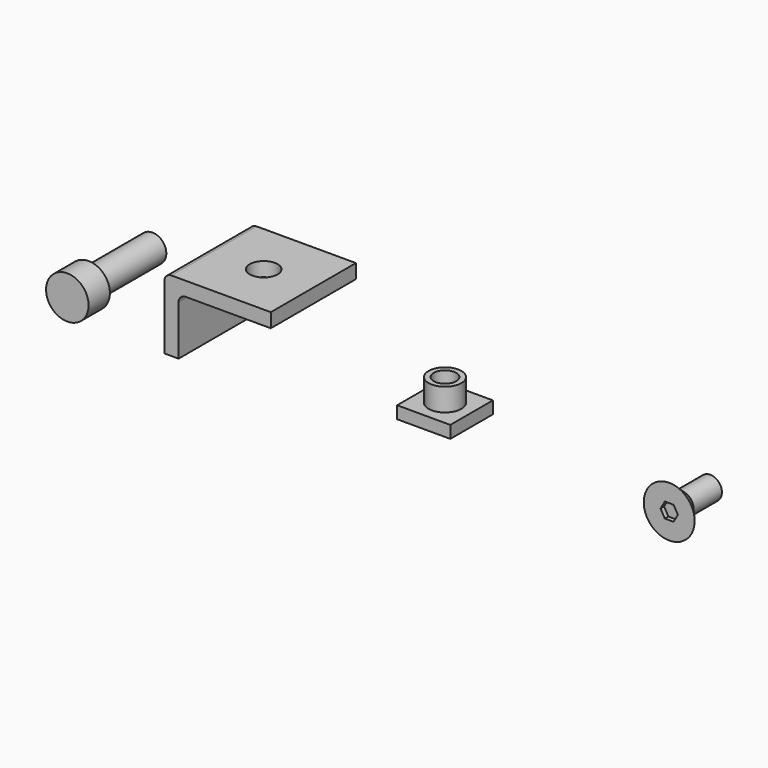
from build123d import *

# Parameters (mm, degrees)
F0_W           = 9.525
F0_H           = 9.525
F1_DEPTH       = 2.2098
F2_R           = 2.9464
F3_DEPTH       = 4.064
F5_D           = 4.0386
F6_W           = 19.05
F6_H           = 12.7
F7_DEPTH       = 9.525
F8_W           = 16.51
F8_H           = 10.16
F9_DEPTH       = 19.051
F10_R          = 1.27
F12_D          = 4.9784
F13_R          = 3.81
F14_DEPTH      = 4.7625
F15_R          = 2.4892
F16_DEPTH      = 14.2875
F17_R          = 2.0828
F18_DEPTH      = 2.8448
F18_TAPER      = -41
F18_DEPTH_BACK = 6.35
F20_DEPTH      = 0.79248


with BuildPart() as f1:
    # F0 (on Top) → F1 (new body)
    with BuildSketch(Plane.XY):
        Rectangle(F0_W, F0_H)
    extrude(amount=F1_DEPTH)

    # F2 (on face) → F3 (join)
    with BuildSketch(Plane.XY.offset(2.2098)):
        Circle(F2_R)
    extrude(amount=F3_DEPTH)

    # F5 (through all)
    with Locations(Plane.XY.offset(6.2738)):
        with Locations((0, 0)):
            Hole(F5_D / 2)


with BuildPart() as f7:
    # F6 (on Front) → F7 (new body, symmetric)
    with BuildSketch(Plane.XZ):
        with Locations((-33.0962524428, 6.35)):
            Rectangle(F6_W, F6_H)
    extrude(amount=F7_DEPTH, both=True)

    # F8 (on face) → F9 (cut, through all)
    with BuildSketch(Plane.XZ.offset(9.525)):
        with Locations((-31.8262524428, 5.08)):
            Rectangle(F8_W, F8_H)
    extrude(amount=-F9_DEPTH, mode=Mode.SUBTRACT)

    # F10
    f10_edges = [f7.edges().sort_by_distance(p)[0] for p in [
        (-42.621252, 0, 12.7),
        (-40.081252, 0, 10.16),
    ]]
    fillet(f10_edges, radius=F10_R)

    # F12 (through all)
    with Locations(Plane.XY.offset(12.7)):
        with Locations((-32.4612524428, 0)):
            Hole(F12_D / 2)


with BuildPart() as f14:
    # F13 (on Front) → F14 (new body)
    with BuildSketch(Plane.XZ):
        with Locations((-63.8143345714, 0)):
            Circle(F13_R)
    extrude(amount=F14_DEPTH)

    # F15 (on face) → F16 (join)
    with BuildSketch(Plane(origin=(0, 0, 0), x_dir=(-1, 0, 0), z_dir=(0, 1, 0))):
        with Locations((63.8143345714, 0)):
            Circle(F15_R)
    extrude(amount=F16_DEPTH)


with BuildPart() as f18:
    # F17 (on Front) → F18 (new body, two sides)
    with BuildSketch(Plane.XZ) as f18_sk:
        with Locations((42.4209682934, 0)):
            Circle(F17_R)
    extrude(amount=F18_DEPTH, taper=F18_TAPER)
    extrude(f18_sk.sketch, amount=-F18_DEPTH_BACK)

    # F19 (on face) → F20 (cut)
    with BuildSketch(Plane.XZ.offset(2.8448)):
        Polygon((43.1966357279, -1.3434954063), (43.9723031624, 0), (43.1966357279, 1.3434954063), (41.645300859, 1.3434954063), (40.8696334245, 0), (41.645300859, -1.3434954063), align=None)
    extrude(amount=-F20_DEPTH, mode=Mode.SUBTRACT)


solid = Compound([f1.part, f7.part, f14.part, f18.part])
